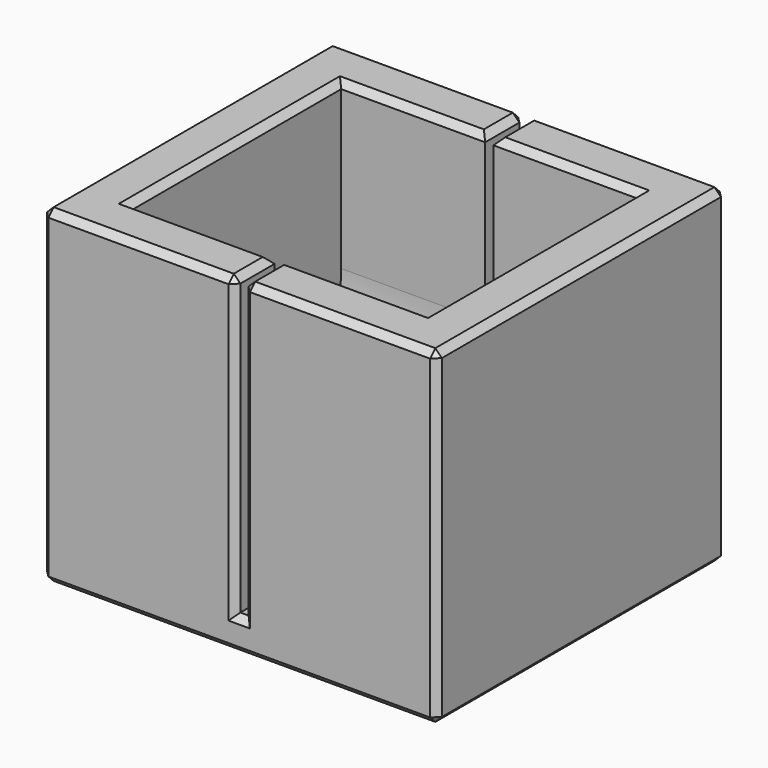
from build123d import *

# Parameters (mm, degrees)
BOX002_W       = 0.5
BOX002_H       = 26
BOX002_DEPTH   = 24
CYLINDER_R     = 8
CYLINDER_DEPTH = 18
BOX001_W       = 18
BOX001_H       = 16
BOX001_DEPTH   = 10
BOX_W          = 24
BOX_H          = 22
BOX_DEPTH      = 20
CHAMFER_SIZE   = 0.4


with BuildPart() as cube002:
    # Box002 → Box002 (new body)
    with BuildSketch(Plane(origin=(-1.25, -13, 2), x_dir=(1, 0, 0), z_dir=(0, 0, 1))):
        with Locations((0.25, 13)):
            Rectangle(BOX002_W, BOX002_H)
    extrude(amount=BOX002_DEPTH)


with BuildPart() as cylinder:
    # Cylinder → Cylinder (new body)
    with BuildSketch(Plane(origin=(8, 0, 10), x_dir=(0, 0, 1), z_dir=(-1, 0, 0))):
        Circle(CYLINDER_R)
    extrude(amount=CYLINDER_DEPTH)


with BuildPart() as fusion:
    # Box001 → Box001 (new body)
    with BuildSketch(Plane(origin=(-10, -8, 10), x_dir=(1, 0, 0), z_dir=(0, 0, 1))):
        with Locations((9, 8)):
            Rectangle(BOX001_W, BOX001_H)
    extrude(amount=BOX001_DEPTH)

    # Fusion: union Cylinder
    add(cylinder.part)


with BuildPart() as chamfer_body:
    # Box → Box (new body)
    with BuildSketch(Plane(origin=(-13, -11, 0), x_dir=(1, 0, 0), z_dir=(0, 0, 1))):
        with Locations((12, 11)):
            Rectangle(BOX_W, BOX_H)
    extrude(amount=BOX_DEPTH)

    # Cut: cut Fusion
    add(fusion.part, mode=Mode.SUBTRACT)

    # Cut001: cut Cube002
    add(cube002.part, mode=Mode.SUBTRACT)

    # Chamfer
    chamfer_edges = [chamfer_body.edges().sort_by_distance(p)[0] for p in [
        (-13, -11, 10),
        (-13, 0, 20),
        (-13, 11, 10),
        (-13, 0, 0),
        (11, -11, 10),
        (5.125, -11, 20),
        (-0.75, -11, 11),
        (-1, -11, 2),
        (-1.25, -11, 11),
        (-7.125, -11, 20),
        (-1, -11, 0),
        (-7.125, 11, 20),
        (-1.25, 9.5, 20),
        (-5.625, 8, 20),
        (-10, 0, 20),
        (-5.625, -8, 20),
        (-1.25, -9.5, 20),
        (11, 11, 10),
        (5.125, 11, 20),
        (-0.75, 11, 11),
        (-1, 11, 2),
        (-1.25, 11, 11),
        (-1, 11, 0),
        (11, 0, 0),
        (11, 0, 20),
        (-0.75, -9.5, 20),
        (3.625, -8, 20),
        (8, 0, 20),
        (3.625, 8, 20),
        (-0.75, 9.5, 20),
    ]]
    chamfer(chamfer_edges, length=CHAMFER_SIZE)


solid = chamfer_body.part
